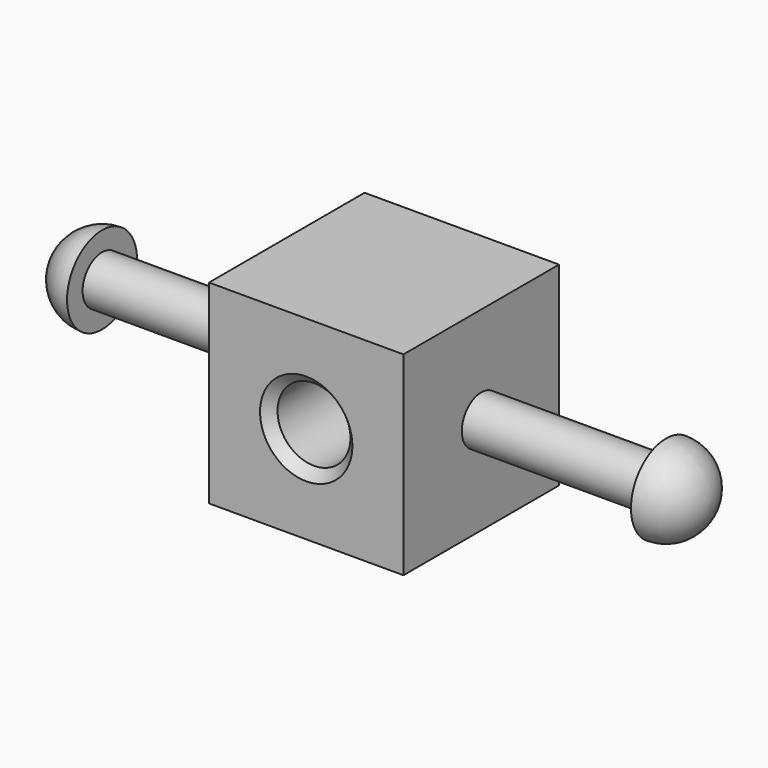
from build123d import *

# Parameters (mm, degrees)
F2_W     = 25.4
F2_H     = 25.4
F3_DEPTH = 12.7


with BuildPart() as f1:
    # F0 (on Front) → F1 (revolve)
    with BuildSketch(Plane.XZ):
        with BuildLine():
            Line((-79.375, 3.175), (-79.375, 5.715))
            ThreePointArc((-79.375, 5.715), (-83.416115, 4.041115), (-85.09, 0))
            Line((-85.09, 0), (0, 0))
            ThreePointArc((0, 0), (-1.673885, 4.041115), (-5.715, 5.715))
            Line((-5.715, 5.715), (-5.715, 3.175))
            Line((-5.715, 3.175), (-79.375, 3.175))
        make_face()
    revolve(axis=Axis((8.346166, 0, 0), (1, 0, 0)))

    # F2 (on Front) → F3 (join, symmetric)
    with BuildSketch(Plane.XZ):
        with Locations((-42.545, 0)):
            Rectangle(F2_W, F2_H)
    extrude(amount=F3_DEPTH, both=True)

    # F5 (on plane+point) → F6 (revolve, cut)
    with BuildSketch(Plane.YZ.offset(-42.545)):
        Polygon((-12.7, 6.0325), (-12.7, 0), (12.7, 0), (12.7, 6.0325), (11.43, 4.7625), (-11.43, 4.7625), align=None)
    revolve(axis=Axis((-42.545, 22.809027, 0), (0, 1, 0)), mode=Mode.SUBTRACT)


solid = f1.part
